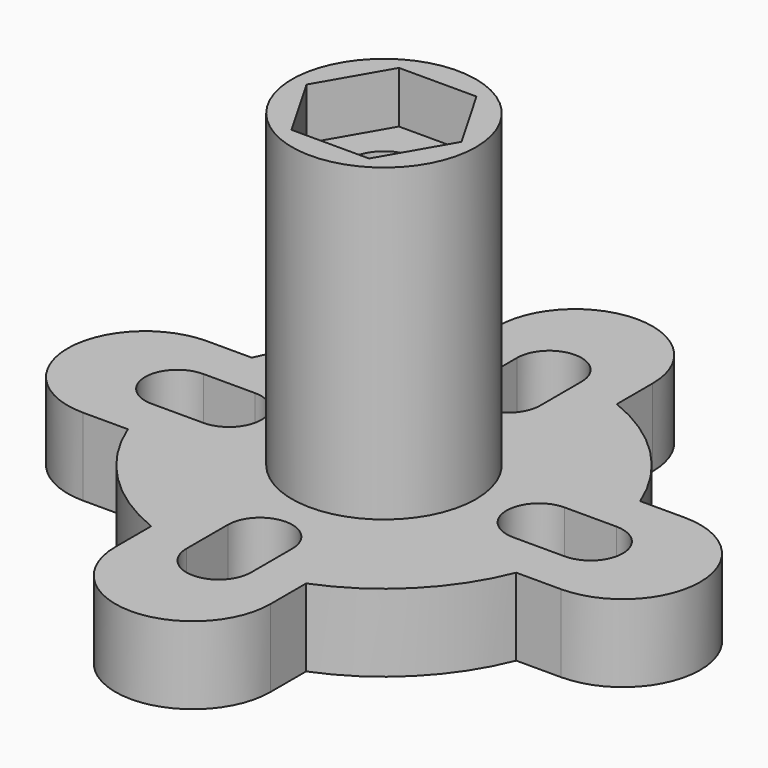
from build123d import *

# Parameters (mm, degrees)
F1_R     = 3.5625
F3_DEPTH = 12
F5_DEPTH = 3
F6_W     = 2.2875
F6_H     = 3.4472514316
F8_DEPTH = 2


with BuildPart() as f3:
    # F1 (on Top) → F3 (new body)
    with BuildSketch(Plane.XY):
        Circle(F1_R)
    extrude(amount=F3_DEPTH)

    # F2 (on Top) → F5 (join)
    with BuildSketch(Plane.XY):
        with BuildLine():
            ThreePointArc((-7.5208044782, -3), (-7.809575399, -2.1384648903), (-8, -1.25))
            ThreePointArc((-8, -1.25), (-9.25, 0), (-8, 1.25))
            ThreePointArc((-8, 1.25), (-7.809575399, 2.1384648903), (-7.5208044782, 3))
            Line((-7.5208044782, 3), (-9.25, 3))
            ThreePointArc((-9.25, 3), (-12.25, 0), (-9.25, -3))
            Line((-9.25, -3), (-7.5208044782, -3))
        make_face()
        with BuildLine():
            Line((-6, -1.25), (-8, -1.25))
            ThreePointArc((-8, -1.25), (-7.809575399, -2.1384648903), (-7.5208044782, -3))
            ThreePointArc((-7.5208044782, -3), (-5.7254912453, -5.7254912453), (-3, -7.5208044782))
            ThreePointArc((-3, -7.5208044782), (-2.1384648903, -7.809575399), (-1.25, -8))
            Line((-1.25, -8), (-1.25, -6))
            ThreePointArc((-1.25, -6), (0, -4.75), (1.25, -6))
            Line((1.25, -6), (1.25, -8))
            ThreePointArc((1.25, -8), (2.1384648903, -7.809575399), (3, -7.5208044782))
            ThreePointArc((3, -7.5208044782), (5.7254912453, -5.7254912453), (7.5208044782, -3))
            ThreePointArc((7.5208044782, -3), (7.809575399, -2.1384648903), (8, -1.25))
            Line((8, -1.25), (6, -1.25))
            ThreePointArc((6, -1.25), (4.75, 0), (6, 1.25))
            Line((6, 1.25), (8, 1.25))
            ThreePointArc((8, 1.25), (7.809575399, 2.1384648903), (7.5208044782, 3))
            ThreePointArc((7.5208044782, 3), (5.7254912453, 5.7254912453), (3, 7.5208044782))
            ThreePointArc((3, 7.5208044782), (2.1384648903, 7.809575399), (1.25, 8))
            Line((1.25, 8), (1.25, 6))
            ThreePointArc((1.25, 6), (0, 4.75), (-1.25, 6))
            Line((-1.25, 6), (-1.25, 8))
            ThreePointArc((-1.25, 8), (-2.1384648903, 7.809575399), (-3, 7.5208044782))
            ThreePointArc((-3, 7.5208044782), (-5.7254912453, 5.7254912453), (-7.5208044782, 3))
            ThreePointArc((-7.5208044782, 3), (-7.809575399, 2.1384648903), (-8, 1.25))
            Line((-8, 1.25), (-6, 1.25))
            ThreePointArc((-6, 1.25), (-4.75, 0), (-6, -1.25))
        make_face()
        with BuildLine():
            ThreePointArc((-1.25, -8), (-2.1384648903, -7.809575399), (-3, -7.5208044782))
            Line((-3, -7.5208044782), (-3, -9.25))
            ThreePointArc((-3, -9.25), (0, -12.25), (3, -9.25))
            Line((3, -9.25), (3, -7.5208044782))
            ThreePointArc((3, -7.5208044782), (2.1384648903, -7.809575399), (1.25, -8))
            ThreePointArc((1.25, -8), (0, -9.25), (-1.25, -8))
        make_face()
        with BuildLine():
            Line((-3, 9.25), (-3, 7.5208044782))
            ThreePointArc((-3, 7.5208044782), (-2.1384648903, 7.809575399), (-1.25, 8))
            ThreePointArc((-1.25, 8), (0, 9.25), (1.25, 8))
            ThreePointArc((1.25, 8), (2.1384648903, 7.809575399), (3, 7.5208044782))
            Line((3, 7.5208044782), (3, 9.25))
            ThreePointArc((3, 9.25), (0, 12.25), (-3, 9.25))
        make_face()
        with BuildLine():
            ThreePointArc((8, -1.25), (7.809575399, -2.1384648903), (7.5208044782, -3))
            Line((7.5208044782, -3), (9.25, -3))
            ThreePointArc((9.25, -3), (12.25, 0), (9.25, 3))
            Line((9.25, 3), (7.5208044782, 3))
            ThreePointArc((7.5208044782, 3), (7.809575399, 2.1384648903), (8, 1.25))
            ThreePointArc((8, 1.25), (9.25, 0), (8, -1.25))
        make_face()
    extrude(amount=-F5_DEPTH)

    # F6 (on Front) → F7 (revolve, cut)
    with BuildSketch(Plane.XZ):
        Polygon((0, -0.9375), (0, 0), (-1.35, 0), (-2.2875, -0.9375), align=None)
        Polygon((-1.35, 0), (0, 0), (0, 1.35), align=None)
        Polygon((-1.35, 17.6957350954), (-1.35, 0), (0, 1.35), (0, 17.6957350954), align=None)
        with Locations((-1.14375, -2.6611257158)):
            Rectangle(F6_W, F6_H)
    revolve(axis=Axis((0, 0, 8.8478675477), (0, 0, 1)), mode=Mode.SUBTRACT)

    # F4 (on face) → F8 (cut)
    with BuildSketch(Plane.XY.offset(12)):
        Polygon((1.5011106999, 2.6), (-1.5011106999, 2.6), (-3.0022213998, 0), (-1.5011106999, -2.6), (1.5011106999, -2.6), (3.0022213998, 0), align=None)
    extrude(amount=-F8_DEPTH, mode=Mode.SUBTRACT)


solid = f3.part
